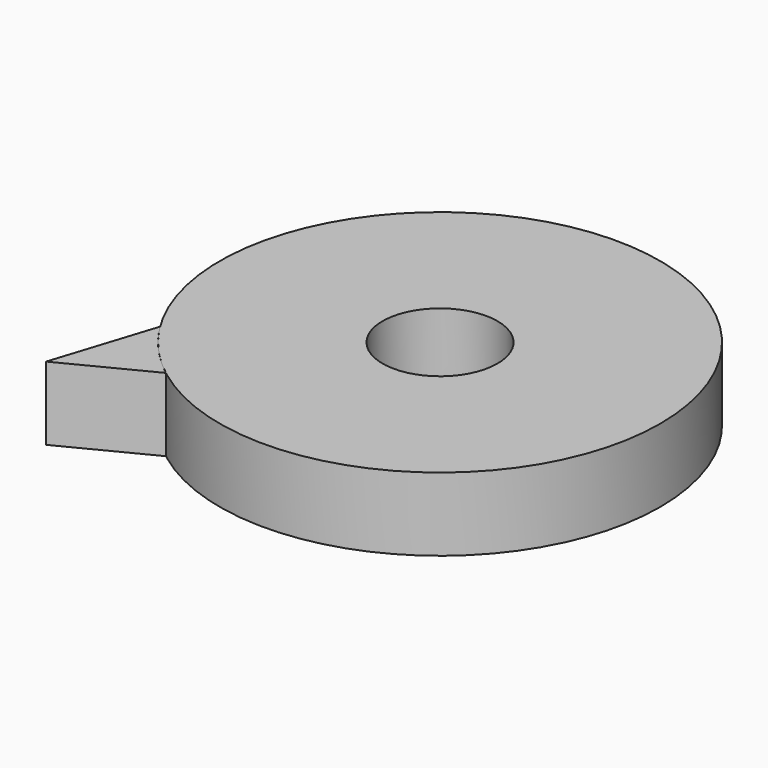
from build123d import *

# Parameters (mm, degrees)
F0_R     = 76.318023
F1_DEPTH = 25.4
F3_DEPTH = 25.4
F4_R     = 68.006987
F4_R_2   = 56.078944
F5_DEPTH = 25.4
F6_R     = 19.913777
F7_DEPTH = 25


with BuildPart() as f1:
    # F0 (on Top) → F1 (new body)
    with BuildSketch(Plane.XY):
        Circle(F0_R)
    extrude(amount=F1_DEPTH)

    # F4 (on face) → F5 (join)
    with BuildSketch(Plane.XY.offset(25.4)):
        Circle(F4_R)
        Circle(F4_R_2, mode=Mode.SUBTRACT)
    extrude(amount=-F5_DEPTH)

    # F6 (on face) → F7 (cut)
    with BuildSketch(Plane.XY.offset(25.4)):
        Circle(F6_R)
    extrude(amount=-F7_DEPTH, mode=Mode.SUBTRACT)


with BuildPart() as f3:
    # F2 (on face) → F3 (new body)
    with BuildSketch(Plane.XY.offset(25.4)):
        with BuildLine():
            ThreePointArc((-46.7222, -60.344649), (-56.721674, -51.059694), (-64.90783, -40.142425))
            Line((-64.90783, -40.142425), (-76.190673, -75.397052))
            Line((-76.190673, -75.397052), (-46.7222, -60.344649))
        make_face()
    extrude(amount=-F3_DEPTH)


solid = Compound([f1.part, f3.part])
